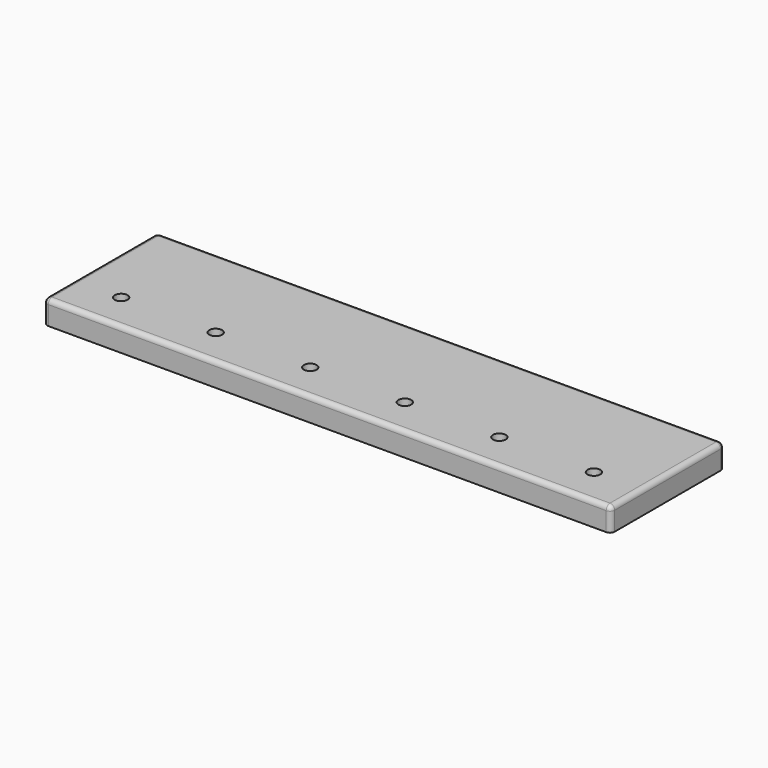
from build123d import *

# Parameters (mm, degrees)
F0_W     = 120
F0_H     = 30
F0_R     = 1.35
F1_DEPTH = 5
F2_SIZE  = 2.5
F3_R     = 1


with BuildPart() as f1:
    # F0 (on Top) → F1 (new body)
    with BuildSketch(Plane.XY):
        with Locations((0, 7)):
            Rectangle(F0_W, F0_H)
        with Locations((-50, 0)):
            Circle(F0_R, mode=Mode.SUBTRACT)
        with Locations((-30, 0)):
            Circle(F0_R, mode=Mode.SUBTRACT)
        with Locations((-10, 0)):
            Circle(F0_R, mode=Mode.SUBTRACT)
        with Locations((10, 0)):
            Circle(F0_R, mode=Mode.SUBTRACT)
        with Locations((30, 0)):
            Circle(F0_R, mode=Mode.SUBTRACT)
        with Locations((50, 0)):
            Circle(F0_R, mode=Mode.SUBTRACT)
    extrude(amount=F1_DEPTH)

    # F2
    f2_edges = [f1.edges().sort_by_distance(p)[0] for p in [
        (-51.35, 0, 0),
        (-31.35, 0, 0),
        (-11.35, 0, 0),
        (8.65, 0, 0),
        (28.65, 0, 0),
        (48.65, 0, 0),
    ]]
    chamfer(f2_edges, length=F2_SIZE)

    # F3
    f3_edges = [f1.edges().sort_by_distance(p)[0] for p in [
        (-60, 7, 5),
        (0, -8, 5),
        (60, 7, 5),
        (0, 22, 5),
        (60, 22, 2.5),
        (60, -8, 2.5),
        (-60, -8, 2.5),
        (-60, 22, 2.5),
    ]]
    fillet(f3_edges, radius=F3_R)


solid = f1.part
